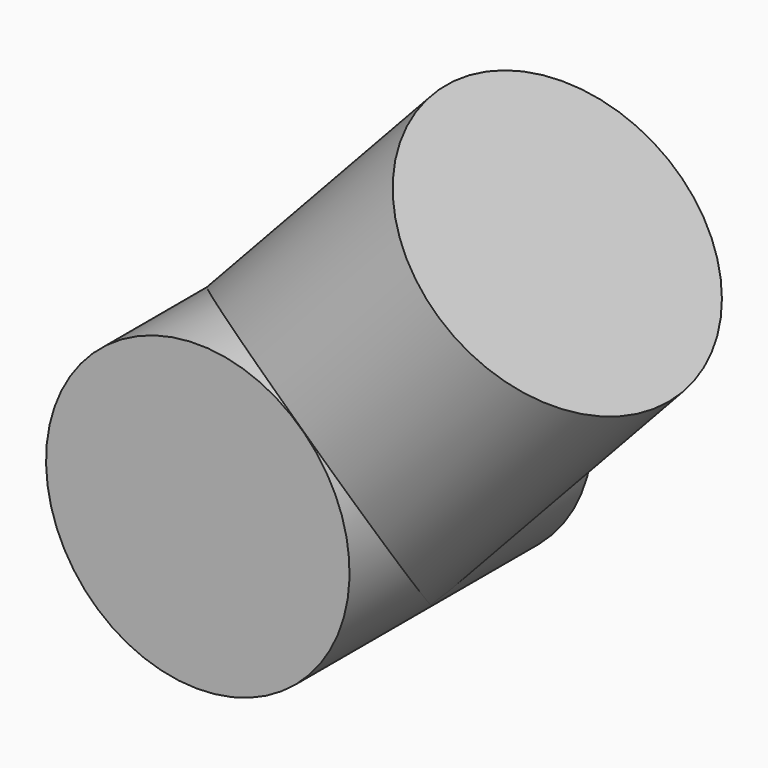
from build123d import *

# Parameters (mm, degrees)
CYLINDER068_R             = 13.9827
CYLINDER068_DEPTH         = 28.0162
CYLINDER067_R             = 13.9827
CYLINDER067_DEPTH         = 32.1945
FUSION026_PLACEMENT_ANGLE = 42.9


with BuildPart() as cylinder068:
    # Cylinder068 → Cylinder068 (new body)
    with BuildSketch(Plane.XZ.offset(-14.0081)):
        Circle(CYLINDER068_R)
    extrude(amount=CYLINDER068_DEPTH)


with BuildPart() as rear_inner_slip_l:
    # Cylinder067 → Cylinder067 (new body)
    with BuildSketch(Plane.XY):
        Circle(CYLINDER067_R)
    extrude(amount=CYLINDER067_DEPTH)

    # Fusion026: union Cylinder068
    add(cylinder068.part)


with BuildPart() as rear_inner_slip_l_1:
    # Fusion026 placement: moved
    add(rear_inner_slip_l.part.moved(Location((-452, -14, -18))).rotate(Axis((-452, -14, -18), (0, 1, 0)), FUSION026_PLACEMENT_ANGLE))


solid = rear_inner_slip_l_1.part
